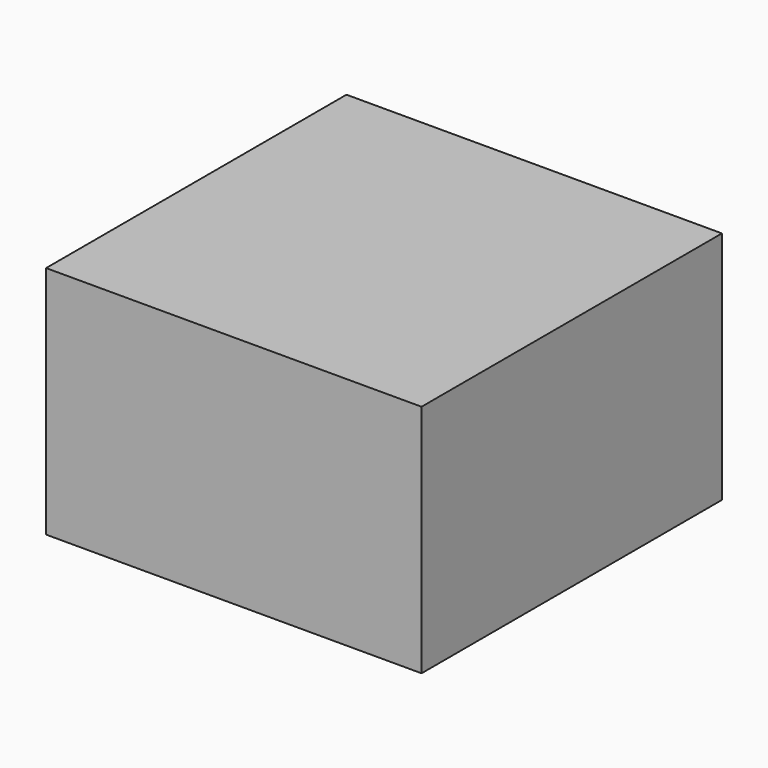
from build123d import *

# Parameters (mm, degrees)
F0_W     = 800
F0_H     = 800
F1_DEPTH = 500
F2_R     = 27.5
F3_DEPTH = 40
F7_R     = 120
F8_DEPTH = 10


with BuildPart() as f1:
    # F0 (on Top) → F1 (new body)
    with BuildSketch(Plane.XY):
        Rectangle(F0_W, F0_H)
    extrude(amount=F1_DEPTH)

    # F2 (on face) → F3 (cut)
    with BuildSketch(Plane(origin=(0, 0, 0), x_dir=(1, 0, 0), z_dir=(0, 0, -1))):
        Circle(F2_R)
    extrude(amount=-F3_DEPTH, mode=Mode.SUBTRACT)

    # F7 (on offset) → F8 (cut)
    with BuildSketch(Plane(origin=(0, -240, 415.6921938165), x_dir=(1, 0, 0), z_dir=(0, 0.5, -0.8660254038))):
        Circle(F7_R)
    extrude(amount=-F8_DEPTH, mode=Mode.SUBTRACT)


solid = f1.part
